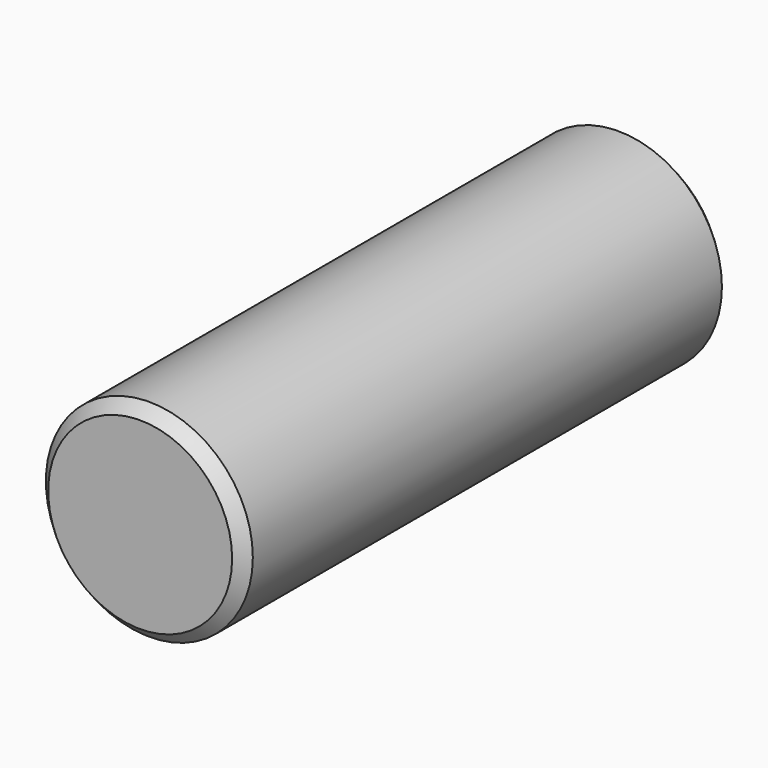
from build123d import *

# Parameters (mm, degrees)
F0_R     = 9
F1_DEPTH = 53
F2_SIZE  = 1


with BuildPart() as f1:
    # F0 (on Front) → F1 (new body)
    with BuildSketch(Plane.XZ):
        Circle(F0_R)
    extrude(amount=F1_DEPTH)

    # F2
    f2_edges = [f1.edges().sort_by_distance(p)[0] for p in [
        (9, -26.5, 0),
        (-9, 0, 0),
        (-9, -53, 0),
    ]]
    chamfer(f2_edges, length=F2_SIZE)


solid = f1.part
